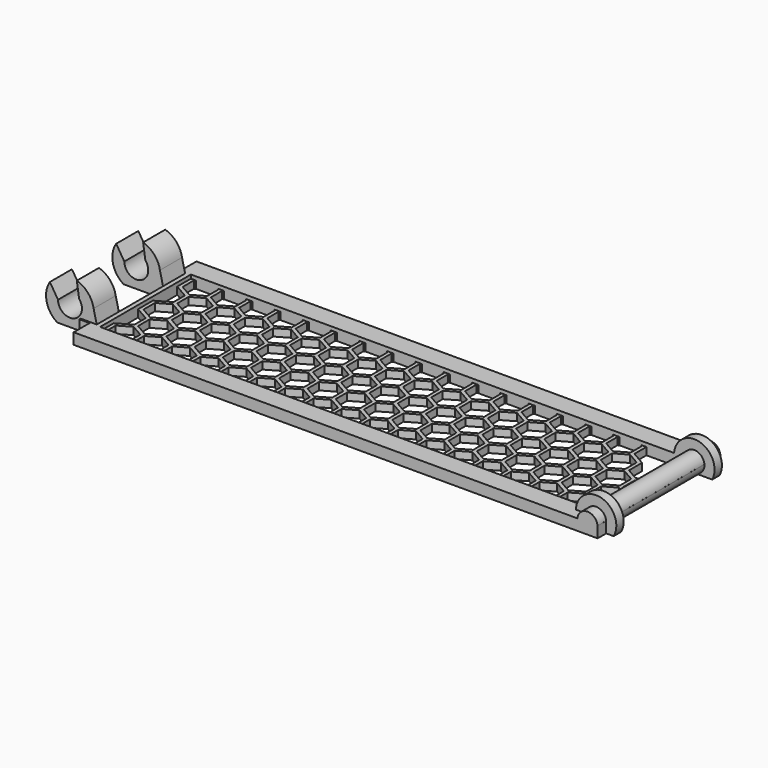
from build123d import *

# Parameters (mm, degrees)
F0_W      = 80.3
F0_H      = 18.5
F1_DEPTH  = 1.8
F3_DEPTH  = 1.2
F5_DEPTH  = 12.5
F6_DEPTH  = 9.25
F7_DEPTH  = 2.75
F10_DEPTH = 1.5
F13_DEPTH = 1.5
F15_DEPTH = 9
F16_DEPTH = 4.5


with BuildPart() as f1:
    # F0 (on Top) → F1 (new body)
    with BuildSketch(Plane.XY):
        Polygon((-41.85, -9.25), (-41.85, -12.5), (43.5, -12.5), (43.5, 12.5), (-41.85, 12.5), (-41.85, 9.25), (-43.5, 9.25), (-43.5, -9.25), align=None)
        Rectangle(F0_W, F0_H, mode=Mode.SUBTRACT)
    extrude(amount=F1_DEPTH)

    # F2 (on Top) → F3 (join)
    with BuildSketch(Plane.XY):
        Polygon((-35.77146997, 9.25), (-35.55, 9.1221342532), (-35.55, 9.25), align=None)
        Polygon((-34.72853003, 9.25), (-34.95, 9.25), (-34.95, 9.1221342532), align=None)
        Polygon((-35.55, -9.25), (-35.55, -9.1221342532), (-35.77146997, -9.25), align=None)
        Polygon((-34.95, -9.1221342532), (-34.95, -9.25), (-34.72853003, -9.25), align=None)
        Polygon((-30.12853003, 9.25), (-30.35, 9.25), (-30.35, 9.1221342532), align=None)
        Polygon((-30.35, -9.1221342532), (-30.35, -9.25), (-30.12853003, -9.25), align=None)
        Polygon((-30.95, -9.25), (-30.95, -9.1221342532), (-31.17146997, -9.25), align=None)
        Polygon((-31.17146997, 9.25), (-30.95, 9.1221342532), (-30.95, 9.25), align=None)
        Polygon((-25.52853003, 9.25), (-25.75, 9.25), (-25.75, 9.1221342532), align=None)
        Polygon((-25.75, -9.1221342532), (-25.75, -9.25), (-25.52853003, -9.25), align=None)
        Polygon((-26.35, -9.25), (-26.35, -9.1221342532), (-26.57146997, -9.25), align=None)
        Polygon((-26.57146997, 9.25), (-26.35, 9.1221342532), (-26.35, 9.25), align=None)
        Polygon((-20.92853003, 9.25), (-21.15, 9.25), (-21.15, 9.1221342532), align=None)
        Polygon((-21.15, -9.1221342532), (-21.15, -9.25), (-20.92853003, -9.25), align=None)
        Polygon((-21.75, -9.25), (-21.75, -9.1221342532), (-21.97146997, -9.25), align=None)
        Polygon((-21.97146997, 9.25), (-21.75, 9.1221342532), (-21.75, 9.25), align=None)
        Polygon((-16.32853003, 9.25), (-16.55, 9.25), (-16.55, 9.1221342532), align=None)
        Polygon((-16.55, -9.1221342532), (-16.55, -9.25), (-16.32853003, -9.25), align=None)
        Polygon((-17.15, -9.25), (-17.15, -9.1221342532), (-17.37146997, -9.25), align=None)
        Polygon((-17.37146997, 9.25), (-17.15, 9.1221342532), (-17.15, 9.25), align=None)
        Polygon((-11.72853003, 9.25), (-11.95, 9.25), (-11.95, 9.1221342532), align=None)
        Polygon((-11.95, -9.1221342532), (-11.95, -9.25), (-11.72853003, -9.25), align=None)
        Polygon((-12.55, -9.25), (-12.55, -9.1221342532), (-12.77146997, -9.25), align=None)
        Polygon((-12.77146997, 9.25), (-12.55, 9.1221342532), (-12.55, 9.25), align=None)
        Polygon((-7.12853003, 9.25), (-7.35, 9.25), (-7.35, 9.1221342532), align=None)
        Polygon((-7.35, -9.1221342532), (-7.35, -9.25), (-7.12853003, -9.25), align=None)
        Polygon((-7.95, -9.25), (-7.95, -9.1221342532), (-8.17146997, -9.25), align=None)
        Polygon((-8.17146997, 9.25), (-7.95, 9.1221342532), (-7.95, 9.25), align=None)
        Polygon((-2.52853003, 9.25), (-2.75, 9.25), (-2.75, 9.1221342532), align=None)
        Polygon((-2.75, -9.1221342532), (-2.75, -9.25), (-2.52853003, -9.25), align=None)
        Polygon((-3.35, -9.25), (-3.35, -9.1221342532), (-3.57146997, -9.25), align=None)
        Polygon((-3.57146997, 9.25), (-3.35, 9.1221342532), (-3.35, 9.25), align=None)
        Polygon((2.07146997, 9.25), (1.85, 9.25), (1.85, 9.1221342532), align=None)
        Polygon((1.85, -9.1221342532), (1.85, -9.25), (2.07146997, -9.25), align=None)
        Polygon((1.25, -9.25), (1.25, -9.1221342532), (1.02853003, -9.25), align=None)
        Polygon((1.02853003, 9.25), (1.25, 9.1221342532), (1.25, 9.25), align=None)
        Polygon((6.67146997, 9.25), (6.45, 9.25), (6.45, 9.1221342532), align=None)
        Polygon((6.45, -9.1221342532), (6.45, -9.25), (6.67146997, -9.25), align=None)
        Polygon((5.85, -9.25), (5.85, -9.1221342532), (5.62853003, -9.25), align=None)
        Polygon((5.62853003, 9.25), (5.85, 9.1221342532), (5.85, 9.25), align=None)
        Polygon((11.27146997, 9.25), (11.05, 9.25), (11.05, 9.1221342532), align=None)
        Polygon((11.05, -9.1221342532), (11.05, -9.25), (11.27146997, -9.25), align=None)
        Polygon((10.45, -9.25), (10.45, -9.1221342532), (10.22853003, -9.25), align=None)
        Polygon((10.22853003, 9.25), (10.45, 9.1221342532), (10.45, 9.25), align=None)
        Polygon((15.87146997, 9.25), (15.65, 9.25), (15.65, 9.1221342532), align=None)
        Polygon((15.65, -9.1221342532), (15.65, -9.25), (15.87146997, -9.25), align=None)
        Polygon((15.05, -9.25), (15.05, -9.1221342532), (14.82853003, -9.25), align=None)
        Polygon((14.82853003, 9.25), (15.05, 9.1221342532), (15.05, 9.25), align=None)
        Polygon((20.47146997, 9.25), (20.25, 9.25), (20.25, 9.1221342532), align=None)
        Polygon((20.25, -9.1221342532), (20.25, -9.25), (20.47146997, -9.25), align=None)
        Polygon((19.65, -9.25), (19.65, -9.1221342532), (19.42853003, -9.25), align=None)
        Polygon((19.42853003, 9.25), (19.65, 9.1221342532), (19.65, 9.25), align=None)
        Polygon((25.07146997, 9.25), (24.85, 9.25), (24.85, 9.1221342532), align=None)
        Polygon((24.85, -9.1221342532), (24.85, -9.25), (25.07146997, -9.25), align=None)
        Polygon((24.25, -9.25), (24.25, -9.1221342532), (24.02853003, -9.25), align=None)
        Polygon((24.02853003, 9.25), (24.25, 9.1221342532), (24.25, 9.25), align=None)
        Polygon((29.67146997, 9.25), (29.45, 9.25), (29.45, 9.1221342532), align=None)
        Polygon((29.45, -9.1221342532), (29.45, -9.25), (29.67146997, -9.25), align=None)
        Polygon((28.85, -9.25), (28.85, -9.1221342532), (28.62853003, -9.25), align=None)
        Polygon((28.62853003, 9.25), (28.85, 9.1221342532), (28.85, 9.25), align=None)
        Polygon((34.05, -9.1221342532), (34.05, -9.25), (34.27146997, -9.25), align=None)
        Polygon((33.45, -9.25), (33.45, -9.1221342532), (33.22853003, -9.25), align=None)
        Polygon((33.22853003, 9.25), (33.45, 9.1221342532), (33.45, 9.25), align=None)
        Polygon((-30.95, 6.8127331764), (-32.95, 5.6580326381), (-32.65, 5.4848275573), (-32.65, 5.1384173958), (-30.65, 6.2931179342), (-30.95, 6.4663230149), align=None)
        Polygon((-32.65, -5.4848275573), (-32.95, -5.6580326381), (-30.95, -6.8127331764), (-30.95, -6.4663230149), (-30.65, -6.2931179342), (-32.65, -5.1384173958), align=None)
        Polygon((-26.35, 6.8127331764), (-28.35, 5.6580326381), (-28.05, 5.4848275573), (-28.05, 5.1384173958), (-26.05, 6.2931179342), (-26.35, 6.4663230149), align=None)
        Polygon((-28.05, -5.4848275573), (-28.35, -5.6580326381), (-26.35, -6.8127331764), (-26.35, -6.4663230149), (-26.05, -6.2931179342), (-28.05, -5.1384173958), align=None)
        Polygon((-21.75, 6.8127331764), (-23.75, 5.6580326381), (-23.45, 5.4848275573), (-23.45, 5.1384173958), (-21.45, 6.2931179342), (-21.75, 6.4663230149), align=None)
        Polygon((-23.45, -5.4848275573), (-23.75, -5.6580326381), (-21.75, -6.8127331764), (-21.75, -6.4663230149), (-21.45, -6.2931179342), (-23.45, -5.1384173958), align=None)
        Polygon((-17.15, 6.8127331764), (-19.15, 5.6580326381), (-18.85, 5.4848275573), (-18.85, 5.1384173958), (-16.85, 6.2931179342), (-17.15, 6.4663230149), align=None)
        Polygon((-18.85, -5.4848275573), (-19.15, -5.6580326381), (-17.15, -6.8127331764), (-17.15, -6.4663230149), (-16.85, -6.2931179342), (-18.85, -5.1384173958), align=None)
        Polygon((-12.55, 6.8127331764), (-14.55, 5.6580326381), (-14.25, 5.4848275573), (-14.25, 5.1384173958), (-12.25, 6.2931179342), (-12.55, 6.4663230149), align=None)
        Polygon((-14.25, -5.4848275573), (-14.55, -5.6580326381), (-12.55, -6.8127331764), (-12.55, -6.4663230149), (-12.25, -6.2931179342), (-14.25, -5.1384173958), align=None)
        Polygon((-7.95, 6.8127331764), (-9.95, 5.6580326381), (-9.65, 5.4848275573), (-9.65, 5.1384173958), (-7.65, 6.2931179342), (-7.95, 6.4663230149), align=None)
        Polygon((-9.65, -5.4848275573), (-9.95, -5.6580326381), (-7.95, -6.8127331764), (-7.95, -6.4663230149), (-7.65, -6.2931179342), (-9.65, -5.1384173958), align=None)
        Polygon((-3.35, 6.8127331764), (-5.35, 5.6580326381), (-5.05, 5.4848275573), (-5.05, 5.1384173958), (-3.05, 6.2931179342), (-3.35, 6.4663230149), align=None)
        Polygon((-5.05, -5.4848275573), (-5.35, -5.6580326381), (-3.35, -6.8127331764), (-3.35, -6.4663230149), (-3.05, -6.2931179342), (-5.05, -5.1384173958), align=None)
        Polygon((1.25, 6.8127331764), (-0.75, 5.6580326381), (-0.45, 5.4848275573), (-0.45, 5.1384173958), (1.55, 6.2931179342), (1.25, 6.4663230149), align=None)
        Polygon((-0.45, -5.4848275573), (-0.75, -5.6580326381), (1.25, -6.8127331764), (1.25, -6.4663230149), (1.55, -6.2931179342), (-0.45, -5.1384173958), align=None)
        Polygon((5.85, 6.8127331764), (3.85, 5.6580326381), (4.15, 5.4848275573), (4.15, 5.1384173958), (6.15, 6.2931179342), (5.85, 6.4663230149), align=None)
        Polygon((4.15, -5.4848275573), (3.85, -5.6580326381), (5.85, -6.8127331764), (5.85, -6.4663230149), (6.15, -6.2931179342), (4.15, -5.1384173958), align=None)
        Polygon((10.45, 6.8127331764), (8.45, 5.6580326381), (8.75, 5.4848275573), (8.75, 5.1384173958), (10.75, 6.2931179342), (10.45, 6.4663230149), align=None)
        Polygon((8.75, -5.4848275573), (8.45, -5.6580326381), (10.45, -6.8127331764), (10.45, -6.4663230149), (10.75, -6.2931179342), (8.75, -5.1384173958), align=None)
        Polygon((15.05, 6.8127331764), (13.05, 5.6580326381), (13.35, 5.4848275573), (13.35, 5.1384173958), (15.35, 6.2931179342), (15.05, 6.4663230149), align=None)
        Polygon((13.35, -5.4848275573), (13.05, -5.6580326381), (15.05, -6.8127331764), (15.05, -6.4663230149), (15.35, -6.2931179342), (13.35, -5.1384173958), align=None)
        Polygon((19.65, 6.8127331764), (17.65, 5.6580326381), (17.95, 5.4848275573), (17.95, 5.1384173958), (19.95, 6.2931179342), (19.65, 6.4663230149), align=None)
        Polygon((17.95, -5.4848275573), (17.65, -5.6580326381), (19.65, -6.8127331764), (19.65, -6.4663230149), (19.95, -6.2931179342), (17.95, -5.1384173958), align=None)
        Polygon((24.25, 6.8127331764), (22.25, 5.6580326381), (22.55, 5.4848275573), (22.55, 5.1384173958), (24.55, 6.2931179342), (24.25, 6.4663230149), align=None)
        Polygon((22.55, -5.4848275573), (22.25, -5.6580326381), (24.25, -6.8127331764), (24.25, -6.4663230149), (24.55, -6.2931179342), (22.55, -5.1384173958), align=None)
        Polygon((28.85, 6.8127331764), (26.85, 5.6580326381), (27.15, 5.4848275573), (27.15, 5.1384173958), (29.15, 6.2931179342), (28.85, 6.4663230149), align=None)
        Polygon((27.15, -5.4848275573), (26.85, -5.6580326381), (28.85, -6.8127331764), (28.85, -6.4663230149), (29.15, -6.2931179342), (27.15, -5.1384173958), align=None)
        Polygon((33.45, 6.8127331764), (31.45, 5.6580326381), (31.75, 5.4848275573), (31.75, 5.1384173958), (33.75, 6.2931179342), (33.45, 6.4663230149), align=None)
        Polygon((31.75, -5.4848275573), (31.45, -5.6580326381), (33.45, -6.8127331764), (33.45, -6.4663230149), (33.75, -6.2931179342), (31.75, -5.1384173958), align=None)
        Polygon((-40.15, 0), (-40.15, -1.5011106999), (-37.85, -2.829016319), (-37.85, -5.1384173958), (-40.15, -6.4663230149), (-40.15, -6.8127331764), (-40.15, -9.1221342532), (-40.15, -9.25), (-39.32853003, -9.25), (-39.55, -9.1221342532), (-39.55, -6.8127331764), (-37.55, -5.6580326381), (-35.55, -6.8127331764), (-35.55, -6.4663230149), (-35.25, -6.2931179342), (-37.25, -5.1384173958), (-37.25, -2.829016319), (-35.25, -1.6743157806), (-35.55, -1.5011106999), (-35.55, -1.1547005384), (-37.55, -2.3094010768), (-39.55, -1.1547005384), (-39.55, 1.1547005384), (-37.55, 2.3094010768), (-35.55, 1.1547005384), (-35.55, 1.5011106999), (-35.25, 1.6743157806), (-36.25, 2.2516660498), (-37.25, 2.829016319), (-37.25, 5.1384173958), (-35.25, 6.2931179342), (-35.55, 6.4663230149), (-35.55, 6.8127331764), (-37.55, 5.6580326381), (-39.55, 6.8127331764), (-39.55, 9.1221342532), (-39.32853003, 9.25), (-40.15, 9.25), (-40.15, 9.1221342532), (-40.15, 6.8127331764), (-40.15, 6.4663230149), (-37.85, 5.1384173958), (-37.85, 2.829016319), (-40.15, 1.5011106999), align=None)
        Polygon((36.35, -2.4826061575), (36.35, -2.829016319), (38.35, -1.6743157806), (40.35, -2.829016319), (40.95, -2.4826061575), (38.65, -1.1547005384), (38.65, 0), (38.65, 1.1547005384), (40.95, 2.4826061575), (40.35, 2.829016319), (38.35, 1.6743157806), (37.35, 2.2516660498), (36.35, 2.829016319), (36.35, 2.4826061575), (36.05, 2.3094010768), (38.05, 1.1547005384), (38.05, -1.1547005384), (36.05, -2.3094010768), align=None)
        Polygon((-28.3584967256, -2.30449549), (-28.3584967256, -5.6629382248), (-28.35, -5.6580326381), (-28.05, -5.4848275573), (-28.05, -5.1384173958), (-28.05, -2.829016319), (-28.05, -2.4826061575), (-28.35, -2.3094010768), align=None)
        Polygon((33.45, -6.4663230149), (33.45, -6.8127331764), (33.45, -9.1221342532), (33.45, -9.25), (34.05, -9.25), (34.05, -9.1221342532), (34.05, -6.8127331764), (36.05, -5.6580326381), (36.35, -5.4848275573), (36.35, -5.1384173958), (36.35, -2.829016319), (36.35, -2.4826061575), (36.05, -2.3094010768), (34.05, -1.1547005384), (34.05, 1.1547005384), (36.05, 2.3094010768), (36.35, 2.4826061575), (36.35, 2.829016319), (36.35, 5.1384173958), (36.35, 5.4848275573), (36.05, 5.6580326381), (34.05, 6.8127331764), (34.05, 9.1221342532), (34.05, 9.25), (33.45, 9.25), (33.45, 9.1221342532), (33.45, 6.8127331764), (33.45, 6.4663230149), (33.75, 6.2931179342), (35.75, 5.1384173958), (35.75, 2.829016319), (33.75, 1.6743157806), (33.45, 1.5011106999), (33.45, 1.1547005384), (33.45, 0), (33.45, -1.1547005384), (33.45, -1.5011106999), (33.75, -1.6743157806), (35.75, -2.829016319), (35.75, -5.1384173958), (33.75, -6.2931179342), align=None)
        Polygon((-35.55, -6.4663230149), (-35.55, -6.8127331764), (-35.55, -9.1221342532), (-35.55, -9.25), (-34.95, -9.25), (-34.95, -9.1221342532), (-34.95, -6.8127331764), (-32.95, -5.6580326381), (-32.65, -5.4848275573), (-32.65, -5.1384173958), (-32.65, -2.829016319), (-32.65, -2.4826061575), (-32.95, -2.3094010768), (-34.95, -1.1547005384), (-34.95, 1.1547005384), (-32.95, 2.3094010768), (-32.65, 2.4826061575), (-32.65, 2.829016319), (-32.65, 5.1384173958), (-32.65, 5.4848275573), (-32.95, 5.6580326381), (-34.95, 6.8127331764), (-34.95, 9.1221342532), (-34.95, 9.25), (-35.55, 9.25), (-35.55, 9.1221342532), (-35.55, 6.8127331764), (-35.55, 6.4663230149), (-35.25, 6.2931179342), (-33.25, 5.1384173958), (-33.25, 2.829016319), (-35.25, 1.6743157806), (-35.55, 1.5011106999), (-35.55, 1.1547005384), (-35.55, 0), (-35.55, -1.1547005384), (-35.55, -1.5011106999), (-35.25, -1.6743157806), (-33.25, -2.829016319), (-33.25, -5.1384173958), (-35.25, -6.2931179342), align=None)
        Polygon((-30.95, -6.4663230149), (-30.95, -6.8127331764), (-30.95, -9.1221342532), (-30.95, -9.25), (-30.35, -9.25), (-30.35, -9.1221342532), (-30.35, -6.8127331764), (-28.3584967256, -5.6629382248), (-28.3584967256, -2.30449549), (-30.35, -1.1547005384), (-30.35, 1.1547005384), (-28.35, 2.3094010768), (-28.05, 2.4826061575), (-28.05, 2.829016319), (-28.05, 5.1384173958), (-28.05, 5.4848275573), (-28.35, 5.6580326381), (-30.35, 6.8127331764), (-30.35, 9.1221342532), (-30.35, 9.25), (-30.95, 9.25), (-30.95, 9.1221342532), (-30.95, 6.8127331764), (-30.95, 6.4663230149), (-30.65, 6.2931179342), (-28.65, 5.1384173958), (-28.65, 2.829016319), (-30.65, 1.6743157806), (-30.95, 1.5011106999), (-30.95, 1.1547005384), (-30.95, 0), (-30.95, -1.1547005384), (-30.95, -1.5011106999), (-30.65, -1.6743157806), (-28.65, -2.829016319), (-28.65, -5.1384173958), (-30.65, -6.2931179342), align=None)
        Polygon((-26.35, -6.4663230149), (-26.35, -6.8127331764), (-26.35, -9.1221342532), (-26.35, -9.25), (-25.75, -9.25), (-25.75, -9.1221342532), (-25.75, -6.8127331764), (-23.75, -5.6580326381), (-23.45, -5.4848275573), (-23.45, -5.1384173958), (-23.45, -2.829016319), (-23.45, -2.4826061575), (-23.75, -2.3094010768), (-25.75, -1.1547005384), (-25.75, 1.1547005384), (-23.75, 2.3094010768), (-23.45, 2.4826061575), (-23.45, 2.829016319), (-23.45, 5.1384173958), (-23.45, 5.4848275573), (-23.75, 5.6580326381), (-25.75, 6.8127331764), (-25.75, 9.1221342532), (-25.75, 9.25), (-26.35, 9.25), (-26.35, 9.1221342532), (-26.35, 6.8127331764), (-26.35, 6.4663230149), (-26.05, 6.2931179342), (-24.05, 5.1384173958), (-24.05, 2.829016319), (-26.05, 1.6743157806), (-26.35, 1.5011106999), (-26.35, 1.1547005384), (-26.35, 0), (-26.35, -1.1547005384), (-26.35, -1.5011106999), (-26.05, -1.6743157806), (-24.05, -2.829016319), (-24.05, -5.1384173958), (-26.05, -6.2931179342), align=None)
        Polygon((-21.75, -6.4663230149), (-21.75, -6.8127331764), (-21.75, -9.1221342532), (-21.75, -9.25), (-21.15, -9.25), (-21.15, -9.1221342532), (-21.15, -6.8127331764), (-19.15, -5.6580326381), (-18.85, -5.4848275573), (-18.85, -5.1384173958), (-18.85, -2.829016319), (-18.85, -2.4826061575), (-19.15, -2.3094010768), (-21.15, -1.1547005384), (-21.15, 1.1547005384), (-19.15, 2.3094010768), (-18.85, 2.4826061575), (-18.85, 2.829016319), (-18.85, 5.1384173958), (-18.85, 5.4848275573), (-19.15, 5.6580326381), (-21.15, 6.8127331764), (-21.15, 9.1221342532), (-21.15, 9.25), (-21.75, 9.25), (-21.75, 9.1221342532), (-21.75, 6.8127331764), (-21.75, 6.4663230149), (-21.45, 6.2931179342), (-19.45, 5.1384173958), (-19.45, 2.829016319), (-21.45, 1.6743157806), (-21.75, 1.5011106999), (-21.75, 1.1547005384), (-21.75, 0), (-21.75, -1.1547005384), (-21.75, -1.5011106999), (-21.45, -1.6743157806), (-19.45, -2.829016319), (-19.45, -5.1384173958), (-21.45, -6.2931179342), align=None)
        Polygon((-17.15, -6.4663230149), (-17.15, -6.8127331764), (-17.15, -9.1221342532), (-17.15, -9.25), (-16.55, -9.25), (-16.55, -9.1221342532), (-16.55, -6.8127331764), (-14.55, -5.6580326381), (-14.25, -5.4848275573), (-14.25, -5.1384173958), (-14.25, -2.829016319), (-14.25, -2.4826061575), (-14.55, -2.3094010768), (-16.55, -1.1547005384), (-16.55, 1.1547005384), (-14.55, 2.3094010768), (-14.25, 2.4826061575), (-14.25, 2.829016319), (-14.25, 5.1384173958), (-14.25, 5.4848275573), (-14.55, 5.6580326381), (-16.55, 6.8127331764), (-16.55, 9.1221342532), (-16.55, 9.25), (-17.15, 9.25), (-17.15, 9.1221342532), (-17.15, 6.8127331764), (-17.15, 6.4663230149), (-16.85, 6.2931179342), (-14.85, 5.1384173958), (-14.85, 2.829016319), (-16.85, 1.6743157806), (-17.15, 1.5011106999), (-17.15, 1.1547005384), (-17.15, 0), (-17.15, -1.1547005384), (-17.15, -1.5011106999), (-16.85, -1.6743157806), (-14.85, -2.829016319), (-14.85, -5.1384173958), (-16.85, -6.2931179342), align=None)
        Polygon((-12.55, -6.4663230149), (-12.55, -6.8127331764), (-12.55, -9.1221342532), (-12.55, -9.25), (-11.95, -9.25), (-11.95, -9.1221342532), (-11.95, -6.8127331764), (-9.95, -5.6580326381), (-9.65, -5.4848275573), (-9.65, -5.1384173958), (-9.65, -2.829016319), (-9.65, -2.4826061575), (-9.95, -2.3094010768), (-11.95, -1.1547005384), (-11.95, 1.1547005384), (-9.95, 2.3094010768), (-9.65, 2.4826061575), (-9.65, 2.829016319), (-9.65, 5.1384173958), (-9.65, 5.4848275573), (-9.95, 5.6580326381), (-11.95, 6.8127331764), (-11.95, 9.1221342532), (-11.95, 9.25), (-12.55, 9.25), (-12.55, 9.1221342532), (-12.55, 6.8127331764), (-12.55, 6.4663230149), (-12.25, 6.2931179342), (-10.25, 5.1384173958), (-10.25, 2.829016319), (-12.25, 1.6743157806), (-12.55, 1.5011106999), (-12.55, 1.1547005384), (-12.55, 0), (-12.55, -1.1547005384), (-12.55, -1.5011106999), (-12.25, -1.6743157806), (-10.25, -2.829016319), (-10.25, -5.1384173958), (-12.25, -6.2931179342), align=None)
        Polygon((-7.95, -6.4663230149), (-7.95, -6.8127331764), (-7.95, -9.1221342532), (-7.95, -9.25), (-7.35, -9.25), (-7.35, -9.1221342532), (-7.35, -6.8127331764), (-5.35, -5.6580326381), (-5.05, -5.4848275573), (-5.05, -5.1384173958), (-5.05, -2.829016319), (-5.05, -2.4826061575), (-5.35, -2.3094010768), (-7.35, -1.1547005384), (-7.35, 1.1547005384), (-5.35, 2.3094010768), (-5.05, 2.4826061575), (-5.05, 2.829016319), (-5.05, 5.1384173958), (-5.05, 5.4848275573), (-5.35, 5.6580326381), (-7.35, 6.8127331764), (-7.35, 9.1221342532), (-7.35, 9.25), (-7.95, 9.25), (-7.95, 9.1221342532), (-7.95, 6.8127331764), (-7.95, 6.4663230149), (-7.65, 6.2931179342), (-5.65, 5.1384173958), (-5.65, 2.829016319), (-7.65, 1.6743157806), (-7.95, 1.5011106999), (-7.95, 1.1547005384), (-7.95, 0), (-7.95, -1.1547005384), (-7.95, -1.5011106999), (-7.65, -1.6743157806), (-5.65, -2.829016319), (-5.65, -5.1384173958), (-7.65, -6.2931179342), align=None)
        Polygon((-3.35, -6.4663230149), (-3.35, -6.8127331764), (-3.35, -9.1221342532), (-3.35, -9.25), (-2.75, -9.25), (-2.75, -9.1221342532), (-2.75, -6.8127331764), (-0.75, -5.6580326381), (-0.45, -5.4848275573), (-0.45, -5.1384173958), (-0.45, -2.829016319), (-0.45, -2.4826061575), (-0.75, -2.3094010768), (-2.75, -1.1547005384), (-2.75, 1.1547005384), (-0.75, 2.3094010768), (-0.45, 2.4826061575), (-0.45, 2.829016319), (-0.45, 5.1384173958), (-0.45, 5.4848275573), (-0.75, 5.6580326381), (-2.75, 6.8127331764), (-2.75, 9.1221342532), (-2.75, 9.25), (-3.35, 9.25), (-3.35, 9.1221342532), (-3.35, 6.8127331764), (-3.35, 6.4663230149), (-3.05, 6.2931179342), (-1.05, 5.1384173958), (-1.05, 2.829016319), (-3.05, 1.6743157806), (-3.35, 1.5011106999), (-3.35, 1.1547005384), (-3.35, 0), (-3.35, -1.1547005384), (-3.35, -1.5011106999), (-3.05, -1.6743157806), (-1.05, -2.829016319), (-1.05, -5.1384173958), (-3.05, -6.2931179342), align=None)
        Polygon((1.25, -6.4663230149), (1.25, -6.8127331764), (1.25, -9.1221342532), (1.25, -9.25), (1.85, -9.25), (1.85, -9.1221342532), (1.85, -6.8127331764), (3.85, -5.6580326381), (4.15, -5.4848275573), (4.15, -5.1384173958), (4.15, -2.829016319), (4.15, -2.4826061575), (3.85, -2.3094010768), (1.85, -1.1547005384), (1.85, 1.1547005384), (3.85, 2.3094010768), (4.15, 2.4826061575), (4.15, 2.829016319), (4.15, 5.1384173958), (4.15, 5.4848275573), (3.85, 5.6580326381), (1.85, 6.8127331764), (1.85, 9.1221342532), (1.85, 9.25), (1.25, 9.25), (1.25, 9.1221342532), (1.25, 6.8127331764), (1.25, 6.4663230149), (1.55, 6.2931179342), (3.55, 5.1384173958), (3.55, 2.829016319), (1.55, 1.6743157806), (1.25, 1.5011106999), (1.25, 1.1547005384), (1.25, 0), (1.25, -1.1547005384), (1.25, -1.5011106999), (1.55, -1.6743157806), (3.55, -2.829016319), (3.55, -5.1384173958), (1.55, -6.2931179342), align=None)
        Polygon((5.85, -6.4663230149), (5.85, -6.8127331764), (5.85, -9.1221342532), (5.85, -9.25), (6.45, -9.25), (6.45, -9.1221342532), (6.45, -6.8127331764), (8.45, -5.6580326381), (8.75, -5.4848275573), (8.75, -5.1384173958), (8.75, -2.829016319), (8.75, -2.4826061575), (8.45, -2.3094010768), (6.45, -1.1547005384), (6.45, 1.1547005384), (8.45, 2.3094010768), (8.75, 2.4826061575), (8.75, 2.829016319), (8.75, 5.1384173958), (8.75, 5.4848275573), (8.45, 5.6580326381), (6.45, 6.8127331764), (6.45, 9.1221342532), (6.45, 9.25), (5.85, 9.25), (5.85, 9.1221342532), (5.85, 6.8127331764), (5.85, 6.4663230149), (6.15, 6.2931179342), (8.15, 5.1384173958), (8.15, 2.829016319), (6.15, 1.6743157806), (5.85, 1.5011106999), (5.85, 1.1547005384), (5.85, 0), (5.85, -1.1547005384), (5.85, -1.5011106999), (6.15, -1.6743157806), (8.15, -2.829016319), (8.15, -5.1384173958), (6.15, -6.2931179342), align=None)
        Polygon((10.45, -6.4663230149), (10.45, -6.8127331764), (10.45, -9.1221342532), (10.45, -9.25), (11.05, -9.25), (11.05, -9.1221342532), (11.05, -6.8127331764), (13.05, -5.6580326381), (13.35, -5.4848275573), (13.35, -5.1384173958), (13.35, -2.829016319), (13.35, -2.4826061575), (13.05, -2.3094010768), (11.05, -1.1547005384), (11.05, 1.1547005384), (13.05, 2.3094010768), (13.35, 2.4826061575), (13.35, 2.829016319), (13.35, 5.1384173958), (13.35, 5.4848275573), (13.05, 5.6580326381), (11.05, 6.8127331764), (11.05, 9.1221342532), (11.05, 9.25), (10.45, 9.25), (10.45, 9.1221342532), (10.45, 6.8127331764), (10.45, 6.4663230149), (10.75, 6.2931179342), (12.75, 5.1384173958), (12.75, 2.829016319), (10.75, 1.6743157806), (10.45, 1.5011106999), (10.45, 1.1547005384), (10.45, 0), (10.45, -1.1547005384), (10.45, -1.5011106999), (10.75, -1.6743157806), (12.75, -2.829016319), (12.75, -5.1384173958), (10.75, -6.2931179342), align=None)
        Polygon((15.05, -6.4663230149), (15.05, -6.8127331764), (15.05, -9.1221342532), (15.05, -9.25), (15.65, -9.25), (15.65, -9.1221342532), (15.65, -6.8127331764), (17.65, -5.6580326381), (17.95, -5.4848275573), (17.95, -5.1384173958), (17.95, -2.829016319), (17.95, -2.4826061575), (17.65, -2.3094010768), (15.65, -1.1547005384), (15.65, 1.1547005384), (17.65, 2.3094010768), (17.95, 2.4826061575), (17.95, 2.829016319), (17.95, 5.1384173958), (17.95, 5.4848275573), (17.65, 5.6580326381), (15.65, 6.8127331764), (15.65, 9.1221342532), (15.65, 9.25), (15.05, 9.25), (15.05, 9.1221342532), (15.05, 6.8127331764), (15.05, 6.4663230149), (15.35, 6.2931179342), (17.35, 5.1384173958), (17.35, 2.829016319), (15.35, 1.6743157806), (15.05, 1.5011106999), (15.05, 1.1547005384), (15.05, 0), (15.05, -1.1547005384), (15.05, -1.5011106999), (15.35, -1.6743157806), (17.35, -2.829016319), (17.35, -5.1384173958), (15.35, -6.2931179342), align=None)
        Polygon((19.65, -6.4663230149), (19.65, -6.8127331764), (19.65, -9.1221342532), (19.65, -9.25), (20.25, -9.25), (20.25, -9.1221342532), (20.25, -6.8127331764), (22.25, -5.6580326381), (22.55, -5.4848275573), (22.55, -5.1384173958), (22.55, -2.829016319), (22.55, -2.4826061575), (22.25, -2.3094010768), (20.25, -1.1547005384), (20.25, 1.1547005384), (22.25, 2.3094010768), (22.55, 2.4826061575), (22.55, 2.829016319), (22.55, 5.1384173958), (22.55, 5.4848275573), (22.25, 5.6580326381), (20.25, 6.8127331764), (20.25, 9.1221342532), (20.25, 9.25), (19.65, 9.25), (19.65, 9.1221342532), (19.65, 6.8127331764), (19.65, 6.4663230149), (19.95, 6.2931179342), (21.95, 5.1384173958), (21.95, 2.829016319), (19.95, 1.6743157806), (19.65, 1.5011106999), (19.65, 1.1547005384), (19.65, 0), (19.65, -1.1547005384), (19.65, -1.5011106999), (19.95, -1.6743157806), (21.95, -2.829016319), (21.95, -5.1384173958), (19.95, -6.2931179342), align=None)
        Polygon((24.25, -6.4663230149), (24.25, -6.8127331764), (24.25, -9.1221342532), (24.25, -9.25), (24.85, -9.25), (24.85, -9.1221342532), (24.85, -6.8127331764), (26.85, -5.6580326381), (27.15, -5.4848275573), (27.15, -5.1384173958), (27.15, -2.829016319), (27.15, -2.4826061575), (26.85, -2.3094010768), (24.85, -1.1547005384), (24.85, 1.1547005384), (26.85, 2.3094010768), (27.15, 2.4826061575), (27.15, 2.829016319), (27.15, 5.1384173958), (27.15, 5.4848275573), (26.85, 5.6580326381), (24.85, 6.8127331764), (24.85, 9.1221342532), (24.85, 9.25), (24.25, 9.25), (24.25, 9.1221342532), (24.25, 6.8127331764), (24.25, 6.4663230149), (24.55, 6.2931179342), (26.55, 5.1384173958), (26.55, 2.829016319), (24.55, 1.6743157806), (24.25, 1.5011106999), (24.25, 1.1547005384), (24.25, 0), (24.25, -1.1547005384), (24.25, -1.5011106999), (24.55, -1.6743157806), (26.55, -2.829016319), (26.55, -5.1384173958), (24.55, -6.2931179342), align=None)
        Polygon((28.85, -6.4663230149), (28.85, -6.8127331764), (28.85, -9.1221342532), (28.85, -9.25), (29.45, -9.25), (29.45, -9.1221342532), (29.45, -6.8127331764), (31.45, -5.6580326381), (31.75, -5.4848275573), (31.75, -5.1384173958), (31.75, -2.829016319), (31.75, -2.4826061575), (31.45, -2.3094010768), (29.45, -1.1547005384), (29.45, 1.1547005384), (31.45, 2.3094010768), (31.75, 2.4826061575), (31.75, 2.829016319), (31.75, 5.1384173958), (31.75, 5.4848275573), (31.45, 5.6580326381), (29.45, 6.8127331764), (29.45, 9.1221342532), (29.45, 9.25), (28.85, 9.25), (28.85, 9.1221342532), (28.85, 6.8127331764), (28.85, 6.4663230149), (29.15, 6.2931179342), (31.15, 5.1384173958), (31.15, 2.829016319), (29.15, 1.6743157806), (28.85, 1.5011106999), (28.85, 1.1547005384), (28.85, 0), (28.85, -1.1547005384), (28.85, -1.5011106999), (29.15, -1.6743157806), (31.15, -2.829016319), (31.15, -5.1384173958), (29.15, -6.2931179342), align=None)
        Polygon((-31.65, 2.2516660498), (-32.65, 2.829016319), (-32.65, 2.4826061575), (-32.95, 2.3094010768), (-30.95, 1.1547005384), (-30.95, 1.5011106999), (-30.65, 1.6743157806), align=None)
        Polygon((-32.65, -2.4826061575), (-32.65, -2.829016319), (-30.65, -1.6743157806), (-30.95, -1.5011106999), (-30.95, -1.1547005384), (-32.95, -2.3094010768), align=None)
        Polygon((-28.05, 2.4826061575), (-28.35, 2.3094010768), (-26.35, 1.1547005384), (-26.35, 1.5011106999), (-26.05, 1.6743157806), (-27.05, 2.2516660498), (-28.05, 2.829016319), align=None)
        Polygon((-26.35, -1.1547005384), (-28.35, -2.3094010768), (-28.05, -2.4826061575), (-28.05, -2.829016319), (-26.05, -1.6743157806), (-26.35, -1.5011106999), align=None)
        Polygon((-23.45, -2.4826061575), (-23.45, -2.829016319), (-21.45, -1.6743157806), (-21.75, -1.5011106999), (-21.75, -1.1547005384), (-23.75, -2.3094010768), align=None)
        Polygon((-22.45, 2.2516660498), (-23.45, 2.829016319), (-23.45, 2.4826061575), (-23.75, 2.3094010768), (-21.75, 1.1547005384), (-21.75, 1.5011106999), (-21.45, 1.6743157806), align=None)
        Polygon((-17.85, 2.2516660498), (-18.85, 2.829016319), (-18.85, 2.4826061575), (-19.15, 2.3094010768), (-17.15, 1.1547005384), (-17.15, 1.5011106999), (-16.85, 1.6743157806), align=None)
        Polygon((-18.85, -2.4826061575), (-18.85, -2.829016319), (-16.85, -1.6743157806), (-17.15, -1.5011106999), (-17.15, -1.1547005384), (-19.15, -2.3094010768), align=None)
        Polygon((-13.25, 2.2516660498), (-14.25, 2.829016319), (-14.25, 2.4826061575), (-14.55, 2.3094010768), (-12.55, 1.1547005384), (-12.55, 1.5011106999), (-12.25, 1.6743157806), align=None)
        Polygon((-14.25, -2.4826061575), (-14.25, -2.829016319), (-12.25, -1.6743157806), (-12.55, -1.5011106999), (-12.55, -1.1547005384), (-14.55, -2.3094010768), align=None)
        Polygon((-8.65, 2.2516660498), (-9.65, 2.829016319), (-9.65, 2.4826061575), (-9.95, 2.3094010768), (-7.95, 1.1547005384), (-7.95, 1.5011106999), (-7.65, 1.6743157806), align=None)
        Polygon((-9.65, -2.4826061575), (-9.65, -2.829016319), (-7.65, -1.6743157806), (-7.95, -1.5011106999), (-7.95, -1.1547005384), (-9.95, -2.3094010768), align=None)
        Polygon((-4.05, 2.2516660498), (-5.05, 2.829016319), (-5.05, 2.4826061575), (-5.35, 2.3094010768), (-3.35, 1.1547005384), (-3.35, 1.5011106999), (-3.05, 1.6743157806), align=None)
        Polygon((-5.05, -2.4826061575), (-5.05, -2.829016319), (-3.05, -1.6743157806), (-3.35, -1.5011106999), (-3.35, -1.1547005384), (-5.35, -2.3094010768), align=None)
        Polygon((0.55, 2.2516660498), (-0.45, 2.829016319), (-0.45, 2.4826061575), (-0.75, 2.3094010768), (1.25, 1.1547005384), (1.25, 1.5011106999), (1.55, 1.6743157806), align=None)
        Polygon((-0.45, -2.4826061575), (-0.45, -2.829016319), (1.55, -1.6743157806), (1.25, -1.5011106999), (1.25, -1.1547005384), (-0.75, -2.3094010768), align=None)
        Polygon((5.15, 2.2516660498), (4.15, 2.829016319), (4.15, 2.4826061575), (3.85, 2.3094010768), (5.85, 1.1547005384), (5.85, 1.5011106999), (6.15, 1.6743157806), align=None)
        Polygon((4.15, -2.4826061575), (4.15, -2.829016319), (6.15, -1.6743157806), (5.85, -1.5011106999), (5.85, -1.1547005384), (3.85, -2.3094010768), align=None)
        Polygon((9.75, 2.2516660498), (8.75, 2.829016319), (8.75, 2.4826061575), (8.45, 2.3094010768), (10.45, 1.1547005384), (10.45, 1.5011106999), (10.75, 1.6743157806), align=None)
        Polygon((8.75, -2.4826061575), (8.75, -2.829016319), (10.75, -1.6743157806), (10.45, -1.5011106999), (10.45, -1.1547005384), (8.45, -2.3094010768), align=None)
        Polygon((14.35, 2.2516660498), (13.35, 2.829016319), (13.35, 2.4826061575), (13.05, 2.3094010768), (15.05, 1.1547005384), (15.05, 1.5011106999), (15.35, 1.6743157806), align=None)
        Polygon((13.35, -2.4826061575), (13.35, -2.829016319), (15.35, -1.6743157806), (15.05, -1.5011106999), (15.05, -1.1547005384), (13.05, -2.3094010768), align=None)
        Polygon((18.95, 2.2516660498), (17.95, 2.829016319), (17.95, 2.4826061575), (17.65, 2.3094010768), (19.65, 1.1547005384), (19.65, 1.5011106999), (19.95, 1.6743157806), align=None)
        Polygon((17.95, -2.4826061575), (17.95, -2.829016319), (19.95, -1.6743157806), (19.65, -1.5011106999), (19.65, -1.1547005384), (17.65, -2.3094010768), align=None)
        Polygon((23.55, 2.2516660498), (22.55, 2.829016319), (22.55, 2.4826061575), (22.25, 2.3094010768), (24.25, 1.1547005384), (24.25, 1.5011106999), (24.55, 1.6743157806), align=None)
        Polygon((22.55, -2.4826061575), (22.55, -2.829016319), (24.55, -1.6743157806), (24.25, -1.5011106999), (24.25, -1.1547005384), (22.25, -2.3094010768), align=None)
        Polygon((28.15, 2.2516660498), (27.15, 2.829016319), (27.15, 2.4826061575), (26.85, 2.3094010768), (28.85, 1.1547005384), (28.85, 1.5011106999), (29.15, 1.6743157806), align=None)
        Polygon((27.15, -2.4826061575), (27.15, -2.829016319), (29.15, -1.6743157806), (28.85, -1.5011106999), (28.85, -1.1547005384), (26.85, -2.3094010768), align=None)
        Polygon((32.75, 2.2516660498), (31.75, 2.829016319), (31.75, 2.4826061575), (31.45, 2.3094010768), (33.45, 1.1547005384), (33.45, 1.5011106999), (33.75, 1.6743157806), align=None)
        Polygon((31.75, -2.4826061575), (31.75, -2.829016319), (33.75, -1.6743157806), (33.45, -1.5011106999), (33.45, -1.1547005384), (31.45, -2.3094010768), align=None)
    extrude(amount=F3_DEPTH)

    # F4 (on Front) → F5 (join, symmetric)
    with BuildSketch(Plane.XZ):
        with BuildLine():
            Line((43.4964643456, 1.5420409399), (43.4959811267, 1.7650918356))
            ThreePointArc((43.4959811267, 1.7650918356), (41.7924190093, 3.2989949756), (40.2, 1.65))
            ThreePointArc((40.2, 1.65), (40.683273811, 0.483273811), (41.85, 0))
            ThreePointArc((41.85, 0), (42.9779112445, 0.4457092442), (43.4964643456, 1.5420409399))
        make_face()
    extrude(amount=F5_DEPTH, both=True)

    # F4 (on Front) → F6 (cut, symmetric)
    with BuildSketch(Plane.XZ):
        with BuildLine():
            ThreePointArc((41.85, 0), (40.683273811, 0.483273811), (40.2, 1.65))
            Line((40.2, 1.65), (39.9331524968, 0))
            Line((39.9331524968, 0), (41.85, 0))
        make_face()
        with BuildLine():
            ThreePointArc((43.4959811267, 1.7650918356), (43.4989949756, 1.7075809907), (43.5, 1.65))
            ThreePointArc((43.5, 1.65), (43.4991158495, 1.5959915296), (43.4964643456, 1.5420409399))
            ThreePointArc((43.4964643456, 1.5420409399), (42.9779112445, 0.4457092442), (41.85, 0))
            Line((41.85, 0), (43.4998050332, 0))
            Line((43.4998050332, 0), (43.700683862, 0))
            Line((43.700683862, 0), (43.4959811267, 1.7650918356))
        make_face()
    extrude(amount=F6_DEPTH, both=True, mode=Mode.SUBTRACT)

    # F4 (on Front) → F7 (join, symmetric)
    with BuildSketch(Plane.XZ):
        with BuildLine():
            ThreePointArc((41.85, 0), (40.683273811, 0.483273811), (40.2, 1.65))
            Line((40.2, 1.65), (39.9331524968, 0))
            Line((39.9331524968, 0), (41.85, 0))
        make_face()
    extrude(amount=F7_DEPTH, both=True)

    # F9 (on offset) → F10 (join)
    with BuildSketch(Plane.XZ.offset(-9.25)):
        with BuildLine():
            Line((38.9380510967, 0), (44.7617231825, 0))
            ThreePointArc((44.7617231825, 0), (41.8498871396, 4.8528074122), (38.9380510967, 0))
        make_face()
    extrude(amount=-F10_DEPTH)

    # F12 (on offset) → F13 (join)
    with BuildSketch(Plane(origin=(0, -9.25, 0), x_dir=(-1, 0, 0), z_dir=(0, 1, 0))):
        with BuildLine():
            Line((-44.7078838325, 0), (-38.9921161675, 0))
            ThreePointArc((-38.9921161675, 0), (-41.85, 4.95), (-44.7078838325, 0))
        make_face()
    extrude(amount=-F13_DEPTH)

    # F14 (on Front) → F15 (join, symmetric)
    with BuildSketch(Plane.XZ):
        with BuildLine():
            ThreePointArc((-48.8380072639, 4.8284645479), (-49.149995739, 3.3057650258), (-48.8425103671, 1.7821497892))
            ThreePointArc((-48.8425103671, 1.7821497892), (-48.2222034657, 0.774924445), (-47.3284609691, 0))
            Line((-47.3284609691, 0), (-43.1715390309, 0))
            ThreePointArc((-43.1715390309, 0), (-41.8356188131, 1.4153246671), (-41.35, 3.3))
            ThreePointArc((-41.35, 3.3), (-41.3629915968, 3.6180655176), (-41.4018798326, 3.9340119692))
            ThreePointArc((-41.4018798326, 3.9340119692), (-42.3243286374, 5.8788460749), (-44.137999549, 7.0381084785))
            Line((-44.137999549, 7.0381084785), (-43.7676116888, 4.5668957711))
            ThreePointArc((-43.7676116888, 4.5668957711), (-43.4206343713, 3.9752195173), (-43.3, 3.3))
            ThreePointArc((-43.3, 3.3), (-44.4891471898, 1.5045604991), (-46.6062594885, 1.8989074977))
            ThreePointArc((-46.6062594885, 1.8989074977), (-47.0454395009, 2.5391471898), (-47.2, 3.3))
            Line((-47.2, 3.3), (-48.5224769176, 5.421531245))
            ThreePointArc((-48.5224769176, 5.421531245), (-48.6930354091, 5.1318043487), (-48.8380072639, 4.8284645479))
        make_face()
        with BuildLine():
            ThreePointArc((-41.35, 3.3), (-41.8356188131, 1.4153246671), (-43.1715390309, 0))
            Line((-43.1715390309, 0), (-40.4636636376, 0))
            Line((-40.4636636376, 0), (-41.4018798326, 3.9340119692))
            ThreePointArc((-41.4018798326, 3.9340119692), (-41.3629915968, 3.6180655176), (-41.35, 3.3))
        make_face()
    extrude(amount=F15_DEPTH, both=True)

    # F14 (on Front) → F16 (cut, symmetric)
    with BuildSketch(Plane.XZ):
        with BuildLine():
            ThreePointArc((-48.8380072639, 4.8284645479), (-49.149995739, 3.3057650258), (-48.8425103671, 1.7821497892))
            ThreePointArc((-48.8425103671, 1.7821497892), (-48.2222034657, 0.774924445), (-47.3284609691, 0))
            Line((-47.3284609691, 0), (-43.1715390309, 0))
            ThreePointArc((-43.1715390309, 0), (-41.8356188131, 1.4153246671), (-41.35, 3.3))
            ThreePointArc((-41.35, 3.3), (-41.3629915968, 3.6180655176), (-41.4018798326, 3.9340119692))
            ThreePointArc((-41.4018798326, 3.9340119692), (-42.3243286374, 5.8788460749), (-44.137999549, 7.0381084785))
            Line((-44.137999549, 7.0381084785), (-43.7676116888, 4.5668957711))
            ThreePointArc((-43.7676116888, 4.5668957711), (-43.4206343713, 3.9752195173), (-43.3, 3.3))
            ThreePointArc((-43.3, 3.3), (-44.4891471898, 1.5045604991), (-46.6062594885, 1.8989074977))
            ThreePointArc((-46.6062594885, 1.8989074977), (-47.0454395009, 2.5391471898), (-47.2, 3.3))
            Line((-47.2, 3.3), (-48.5224769176, 5.421531245))
            ThreePointArc((-48.5224769176, 5.421531245), (-48.6930354091, 5.1318043487), (-48.8380072639, 4.8284645479))
        make_face()
        with BuildLine():
            ThreePointArc((-41.35, 3.3), (-41.8356188131, 1.4153246671), (-43.1715390309, 0))
            Line((-43.1715390309, 0), (-40.4636636376, 0))
            Line((-40.4636636376, 0), (-41.4018798326, 3.9340119692))
            ThreePointArc((-41.4018798326, 3.9340119692), (-41.3629915968, 3.6180655176), (-41.35, 3.3))
        make_face()
    extrude(amount=F16_DEPTH, both=True, mode=Mode.SUBTRACT)


solid = f1.part
